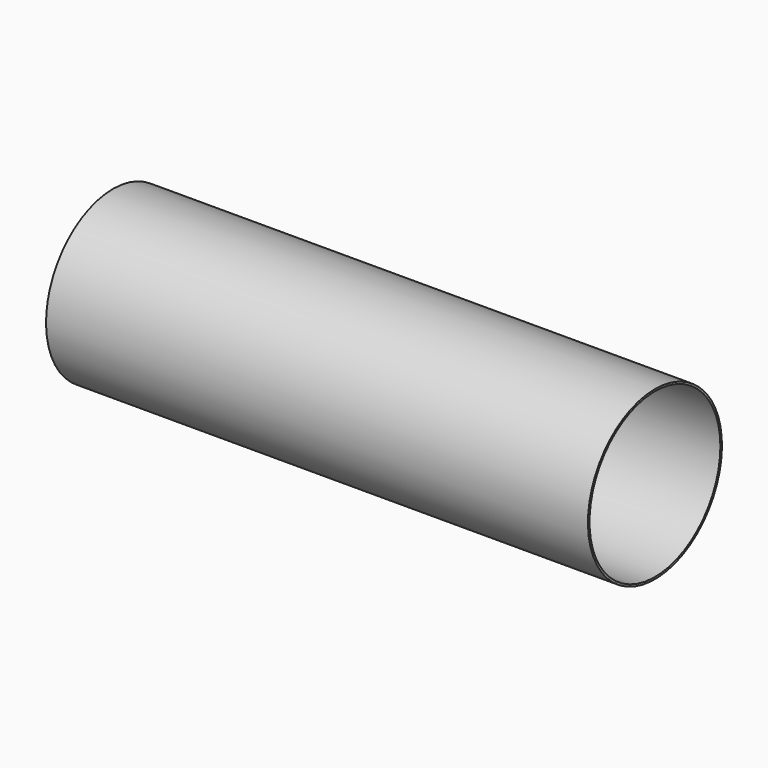
from build123d import *

# Parameters (mm, degrees)
F0_W     = 110
F0_H     = 17
F3_D     = 33.2
F3_DEPTH = 110


with BuildPart() as f1:
    # F0 (on Front) → F1 (revolve)
    with BuildSketch(Plane.XZ):
        with Locations((52.566696, 7.21291)):
            Rectangle(F0_W, F0_H)
    revolve(axis=Axis((52.566696, 0, -1.28709), (1, 0, 0)))

    # F3
    with Locations(Plane(origin=(-2.433304, 0, 0), x_dir=(0, -1, 0), z_dir=(-1, 0, 0))):
        with Locations((0, -1.28709)):
            Hole(F3_D / 2, depth=F3_DEPTH)


solid = f1.part
